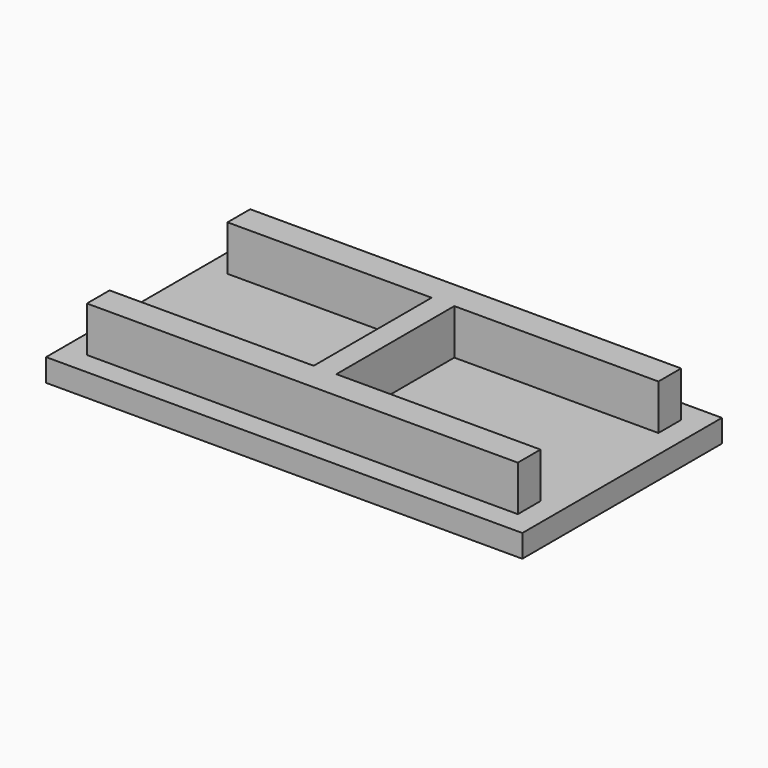
from build123d import *

# Parameters (mm, degrees)
SKETCH_W     = 42
SKETCH_H     = 22
PAD_DEPTH    = 2
PAD001_DEPTH = 4


with BuildPart() as part:
    # Sketch → Pad (new body)
    with BuildSketch(Plane.XY):
        Rectangle(SKETCH_W, SKETCH_H)
    extrude(amount=PAD_DEPTH)

    # Sketch001 (on Face6 of Pad) → Pad001 (join)
    with BuildSketch(Plane.XY.offset(2)):
        Polygon((-19, 9), (19, 9), (19, 6.5), (1, 6.5), (1, -6.5), (19, -6.5), (19, -9), (-19, -9), (-19, -6.5), (-1, -6.5), (-1, 6.5), (-19, 6.5), align=None)
    extrude(amount=PAD001_DEPTH)


solid = part.part
